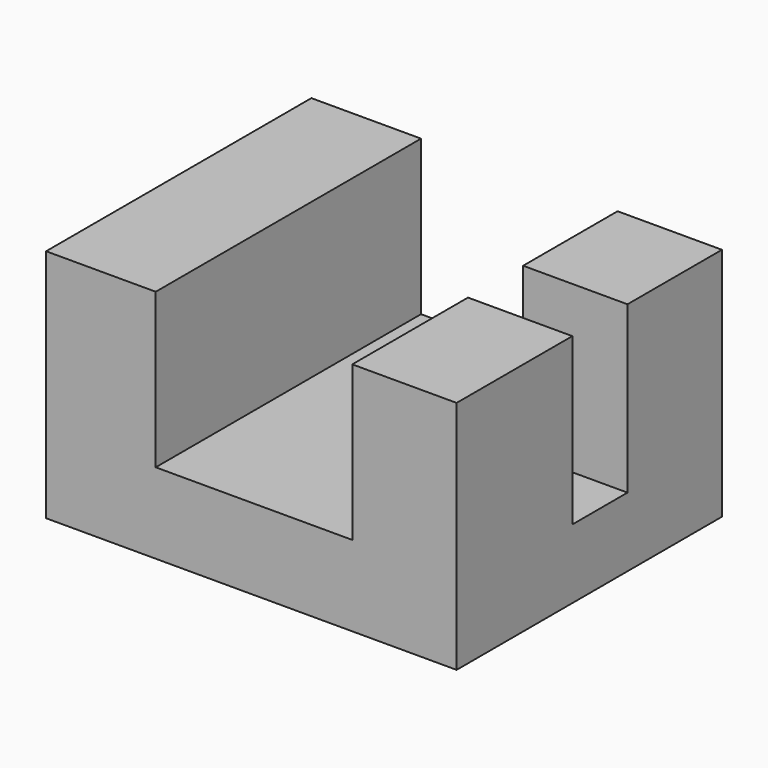
from build123d import *

# Parameters (mm, degrees)
F1_DEPTH = 25.4
F2_DEPTH = 25.4
F3_W     = 15.985176
F3_H     = 10.561323
F4_DEPTH = 25.4


with BuildPart() as f1:
    # F0 (on Front) → F1 (new body)
    with BuildSketch(Plane.XZ):
        Polygon((0, 36.004499), (0, 0), (62.887855, 0), (62.887855, 36.004499), (46.902679, 36.004499), (46.902679, 12.330239), (16.79617, 12.330239), (16.79617, 36.004499), align=None)
    extrude(amount=F1_DEPTH)

    # F1_face (on face) → F2 (join)
    with BuildSketch(Plane(origin=(31.257644, -25.4, 15.170026), x_dir=(1, 0, 0), z_dir=(0, -1, 0))):
        Polygon((-31.257644, 20.834473), (-31.257644, -15.170026), (31.630211, -15.170026), (31.630211, 20.834473), (15.645035, 20.834473), (15.645035, -2.839787), (-14.461474, -2.839787), (-14.461474, 20.834473), align=None)
    extrude(amount=F2_DEPTH)

    # F3 (on face) → F4 (cut)
    with BuildSketch(Plane.XY.offset(36.004499)):
        with Locations((54.895267, -23.362921)):
            Rectangle(F3_W, F3_H)
    extrude(amount=-F4_DEPTH, mode=Mode.SUBTRACT)


solid = f1.part
